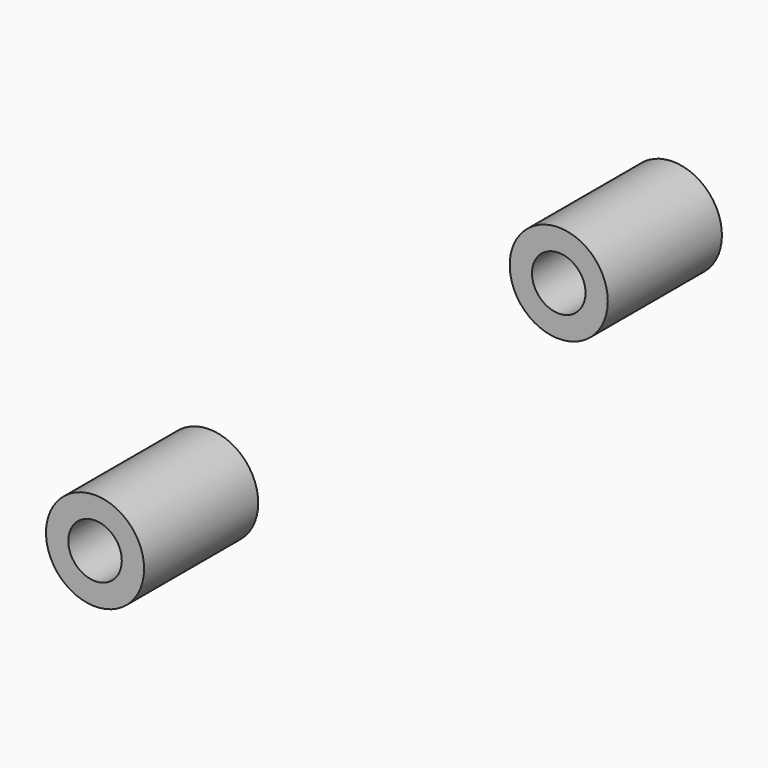
from build123d import *

# Parameters (mm, degrees)
LM12UU_0_INT001_R          = 6
LM12UU_0_INT001_DEPTH      = 34
LM12UU_0_INT001_ROLL_ANGLE = -90
LM12UU_0_EXT001_R          = 11
LM12UU_0_EXT001_DEPTH      = 32
LM12UU_0_EXT001_ROLL_ANGLE = -90


with BuildPart() as lm12uu_0_int001:
    # lm12uu_0_int001 → lm12uu_0_int001 (new body)
    with BuildSketch(Plane.XY):
        Circle(LM12UU_0_INT001_R)
    extrude(amount=LM12UU_0_INT001_DEPTH)


with BuildPart() as lm12uu_0_int001_1:
    # lm12uu_0_int001 roll: moved
    add(lm12uu_0_int001.part.rotate(Axis((0, 0, 0), (1, 0, 0)), LM12UU_0_INT001_ROLL_ANGLE))


with BuildPart() as lm12uu_0_int001_2:
    # lm12uu_0_int001 placement: moved
    add(lm12uu_0_int001_1.part.moved(Location((0, -82, 0))))


with BuildPart() as lm12uu_0001_body:
    # lm12uu_0_ext001 → lm12uu_0_ext001 (new body)
    with BuildSketch(Plane.XY):
        Circle(LM12UU_0_EXT001_R)
    extrude(amount=LM12UU_0_EXT001_DEPTH)


with BuildPart() as lm12uu_0001_body_1:
    # lm12uu_0_ext001 roll: moved
    add(lm12uu_0001_body.part.rotate(Axis((0, 0, 0), (1, 0, 0)), LM12UU_0_EXT001_ROLL_ANGLE))


with BuildPart() as lm12uu_0001_body_2:
    # lm12uu_0_ext001 placement: moved
    add(lm12uu_0001_body_1.part.moved(Location((0, -81, 0))))

    # lm12uu_0001: cut lm12uu_0_int001
    add(lm12uu_0_int001_2.part, mode=Mode.SUBTRACT)


with BuildPart() as clone017:
    # Clone017 base: copy of lm12uu_0001 body
    add(lm12uu_0001_body_2.part)


with BuildPart() as clone017_1:
    # Clone017 placement: moved
    add(clone017.part.moved(Location((0, 130, 0))))


with BuildPart() as slider_right_bear:
    # slider_right_bear base: copy of lm12uu_0001 body
    add(lm12uu_0001_body_2.part)

    # slider_right_bear: union Clone017
    add(clone017_1.part)


with BuildPart() as slider_right_bear_1:
    # slider_right_bear placement: moved
    add(slider_right_bear.part.moved(Location((96.9, 560, 53))))


solid = slider_right_bear_1.part
